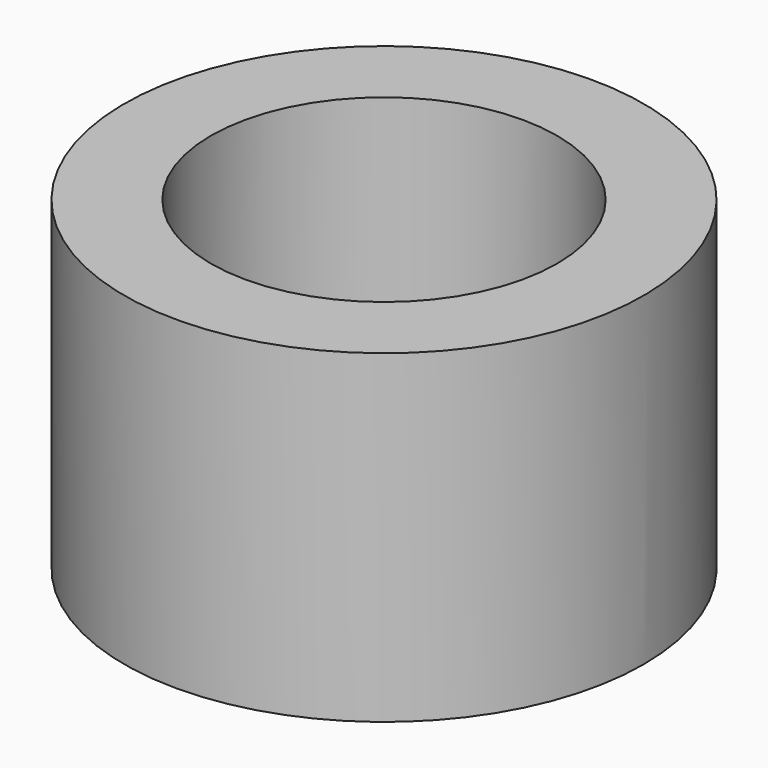
from build123d import *

# Parameters (mm, degrees)
CYLINDER024_R               = 5
CYLINDER024_DEPTH           = 2.5
CYLINDER019_R               = 12
CYLINDER019_DEPTH           = 2.5
CYLINDER027_R               = 8
CYLINDER027_DEPTH           = 12.5
CYLINDER026_R               = 12
CYLINDER026_DEPTH           = 12.5
CYLINDER026_PLACEMENT_ANGLE = 1


with BuildPart() as largeplughole:
    # Cylinder024 → Cylinder024 (new body)
    with BuildSketch(Plane.XY):
        Circle(CYLINDER024_R)
    extrude(amount=CYLINDER024_DEPTH)


with BuildPart() as largeplugbase001:
    # Cylinder019 → Cylinder019 (new body)
    with BuildSketch(Plane.XY):
        Circle(CYLINDER019_R)
    extrude(amount=CYLINDER019_DEPTH)

    # Cut008: cut LargePlugHole
    add(largeplughole.part, mode=Mode.SUBTRACT)


with BuildPart() as largeplugwallhole:
    # Cylinder027 → Cylinder027 (new body)
    with BuildSketch(Plane.XY.offset(2.5)):
        Circle(CYLINDER027_R)
    extrude(amount=CYLINDER027_DEPTH)


with BuildPart() as obj1:
    # Cylinder026 → Cylinder026 (new body)
    with BuildSketch(Plane.XY):
        Circle(CYLINDER026_R)
    extrude(amount=CYLINDER026_DEPTH)


with BuildPart() as obj1_1:
    # Cylinder026 placement: moved
    add(obj1.part.moved(Location((0, 0, 2.5))).rotate(Axis((0, 0, 2.5), (0, 0, 1)), CYLINDER026_PLACEMENT_ANGLE))

    # Cut007: cut LargePlugWallHole
    add(largeplugwallhole.part, mode=Mode.SUBTRACT)

    # Fusion028: union LargePlugBase001
    add(largeplugbase001.part)


with BuildPart() as obj1_2:
    # Fusion028 placement: moved
    add(obj1_1.part.moved(Location((0, -47.75, -2.5))))


solid = obj1_2.part
